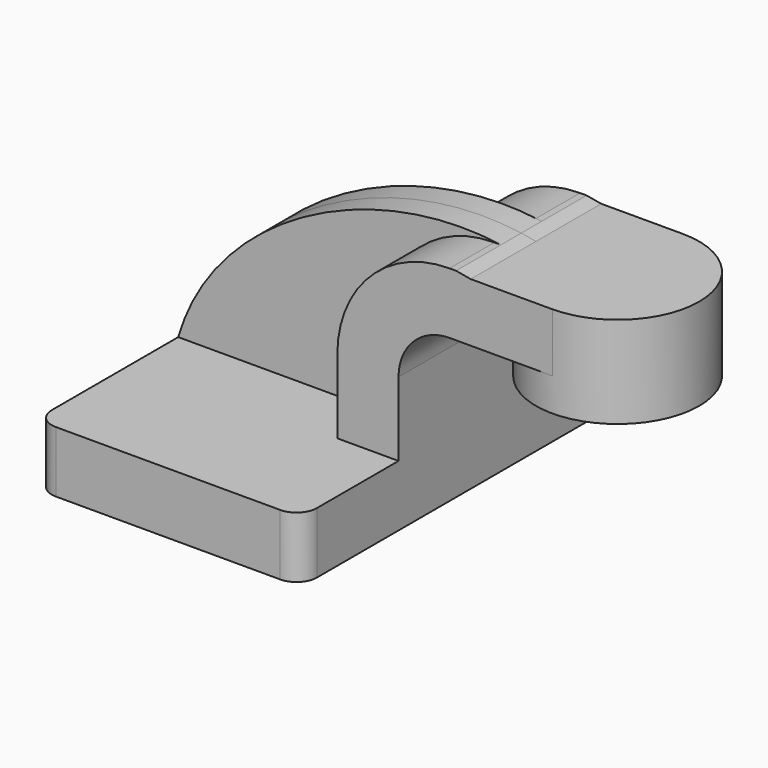
from build123d import *

# Parameters (mm, degrees)
F1_DEPTH = 63.5
F0_W     = 25.4
F0_H     = 18.2524110483
F2_DEPTH = 25.4
F3_DEPTH = 7.9375
F5_R     = 6.35


with BuildPart() as f1:
    # F0 (on Front) → F1 (new body, symmetric)
    with BuildSketch(Plane.XZ):
        Polygon((-41.275, 9.525), (-41.275, -9.525), (41.275, -9.525), (41.275, 9.525), (22.225, 9.525), align=None)
    extrude(amount=F1_DEPTH, both=True)

    # F0 (on Front) → F2 (join, symmetric)
    with BuildSketch(Plane.XZ):
        with BuildLine():
            Line((22.225, 9.525), (41.275, 9.525))
            Line((41.275, 9.525), (41.275, 32.5475889517))
            ThreePointArc((41.275, 32.5475889517), (45.9246798487, 43.772909103), (57.15, 48.4225889517))
            Line((57.15, 48.4225889517), (63.746570544, 48.4225889517))
            Line((63.746570544, 48.4225889517), (63.746570544, 66.675))
            add(Edge.make_bspline(
                [(59.1752846606, 67.4725889517), (60.7111512881, 67.2512383806), (62.2357271137, 66.985690031), (63.746570544, 66.675)],
                knots=[115.2165224238, 115.2165224238, 115.2165224238, 115.2165224238, 119.5644294074, 119.5644294074, 119.5644294074, 119.5644294074], degree=3))
            Line((59.1752846606, 67.4725889517), (57.15, 67.4725889517))
            ThreePointArc((57.15, 67.4725889517), (32.4542956671, 57.2432932846), (22.225, 32.5475889517))
            Line((22.225, 32.5475889517), (22.225, 9.525))
        make_face()
        with Locations((76.446570544, 57.5487944758)):
            Rectangle(F0_W, F0_H)
    extrude(amount=F2_DEPTH, both=True)

    # F0 (on Front) → F3 (join, symmetric)
    with BuildSketch(Plane.XZ):
        with BuildLine():
            add(Edge.make_bspline(
                [(-41.275, 9.525), (-30.1520692278, 48.1675955618), (18.4758832255, 73.3382257116), (59.1752846606, 67.4725889517)],
                knots=[0, 0, 0, 0, 115.2165224238, 115.2165224238, 115.2165224238, 115.2165224238], degree=3))
            Line((-41.275, 9.525), (22.225, 9.525))
            Line((22.225, 9.525), (22.225, 32.5475889517))
            ThreePointArc((22.225, 32.5475889517), (32.4542956671, 57.2432932846), (57.15, 67.4725889517))
            Line((57.15, 67.4725889517), (59.1752846606, 67.4725889517))
        make_face()
    extrude(amount=F3_DEPTH, both=True)

    # F0 (on Front) → F4 (revolve)
    with BuildSketch(Plane.XZ):
        Polygon((114.546570544, 66.675), (89.146570544, 66.675), (89.146570544, 48.4225889517), (89.146570544, 38.1), (114.546570544, 38.1), align=None)
    revolve(axis=Axis((89.146570544, 0, 52.7862944758), (0, 0, 1)))

    # F5
    f5_edges = [f1.edges().sort_by_distance(p)[0] for p in [
        (41.275, -63.5, 0),
        (-41.275, -63.5, 0),
        (41.275, 63.5, 0),
        (-41.275, 63.5, 0),
    ]]
    fillet(f5_edges, radius=F5_R)


solid = f1.part
